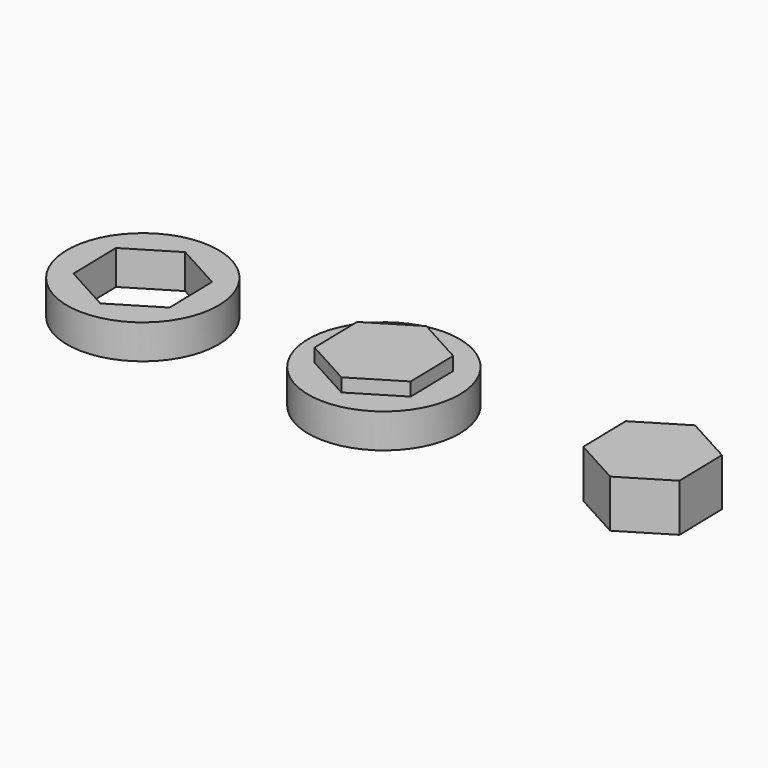
from build123d import *

# Parameters (mm, degrees)
F1_DEPTH = 25.4
F2_R     = 40.250295
F3_DEPTH = 18.288


with BuildPart() as f1:
    # F0 (on Top) → F1 (new body)
    with BuildSketch(Plane.XY):
        Polygon((24.8703, 15.091868), (-0.634791, 29.084245), (-25.505091, 13.992378), (-24.8703, -15.091868), (0.634791, -29.084245), (25.505091, -13.992378), align=None)
    extrude(amount=F1_DEPTH)


with BuildPart() as f3:
    # F2 (on Top) → F3 (new body)
    with BuildSketch(Plane.XY):
        Circle(F2_R)
    extrude(amount=F3_DEPTH)

    # F4: cut F1
    add(f1.part, mode=Mode.SUBTRACT)


with BuildPart() as f5_1:
    # F5: copy of F1
    add(f1.part.moved(Location((143.256, 0, 0))))


with BuildPart() as f6_1:
    # F6: copy of F3
    add(f3.part.moved(Location((-128.524, 0, 0))))


solid = Compound([f1.part, f3.part, f5_1.part, f6_1.part])
